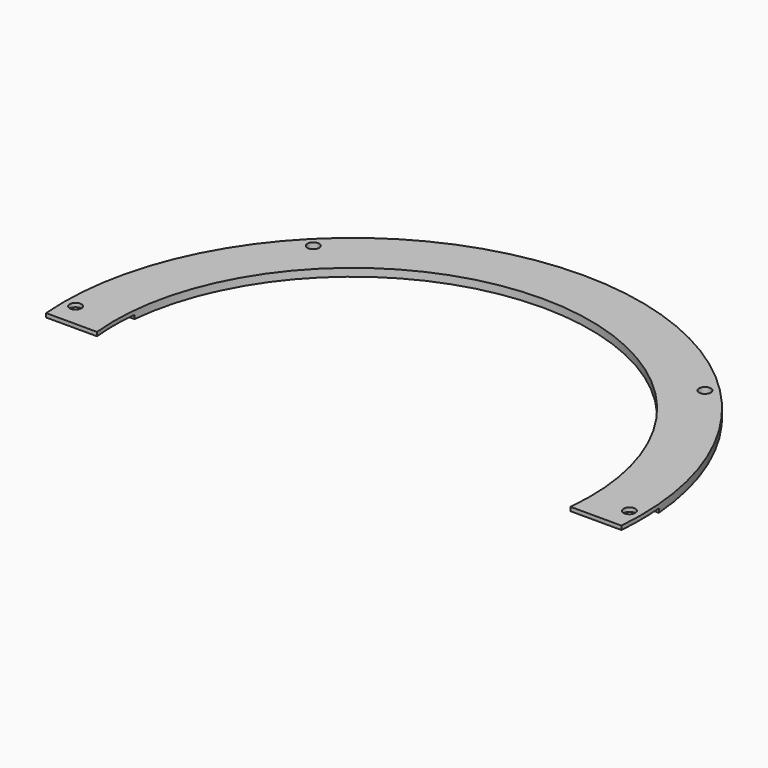
from build123d import *

# Parameters (mm, degrees)
BOX001_W                    = 180
BOX001_H                    = 180
BOX001_DEPTH                = 2
BOX_W                       = 180
BOX_H                       = 180
BOX_DEPTH                   = 1
CYLINDER494_R               = 1.5
CYLINDER494_DEPTH           = 60
CYLINDER494_PLACEMENT_ANGLE = 45
CYLINDER495_R               = 1.5
CYLINDER495_DEPTH           = 60
CYLINDER496_R               = 1.5
CYLINDER496_DEPTH           = 60
CYLINDER496_PLACEMENT_ANGLE = 135
CYLINDER498_R               = 1.5
CYLINDER498_DEPTH           = 60
CYLINDER498_PLACEMENT_ANGLE = 225
CYLINDER499_R               = 1.5
CYLINDER499_DEPTH           = 60
CYLINDER500_R               = 1.5
CYLINDER500_DEPTH           = 60
CYLINDER500_PLACEMENT_ANGLE = 45
CYLINDER_R                  = 1.5
CYLINDER_DEPTH              = 60
TUBE029_R                   = 74
TUBE029_R_2                 = 61
TUBE029_DEPTH               = 2


with BuildPart() as krychle001:
    # Box001 → Box001 (new body)
    with BuildSketch(Plane(origin=(-90, -186, 14), x_dir=(1, 0, 0), z_dir=(0, 0, 1))):
        with Locations((90, 90)):
            Rectangle(BOX001_W, BOX001_H)
    extrude(amount=BOX001_DEPTH)


with BuildPart() as krychle:
    # Box → Box (new body)
    with BuildSketch(Plane(origin=(-90, -174, 14), x_dir=(1, 0, 0), z_dir=(0, 0, 1))):
        with Locations((90, 90)):
            Rectangle(BOX_W, BOX_H)
    extrude(amount=BOX_DEPTH)


with BuildPart() as obj1:
    # Cylinder494 → Cylinder494 (new body)
    with BuildSketch(Plane.XY):
        Circle(CYLINDER494_R)
    extrude(amount=CYLINDER494_DEPTH)


with BuildPart() as obj1_1:
    # Cylinder494 placement: moved
    add(obj1.part.moved(Location((50.204581, -50.204581, 0))).rotate(Axis((50.204581, -50.204581, 0), (0, 0, 1)), CYLINDER494_PLACEMENT_ANGLE))


with BuildPart() as obj2:
    # Cylinder495 → Cylinder495 (new body)
    with BuildSketch(Plane(origin=(71, 0, 0), x_dir=(0, 1, 0), z_dir=(0, 0, 1))):
        Circle(CYLINDER495_R)
    extrude(amount=CYLINDER495_DEPTH)


with BuildPart() as obj3:
    # Cylinder496 → Cylinder496 (new body)
    with BuildSketch(Plane.XY):
        Circle(CYLINDER496_R)
    extrude(amount=CYLINDER496_DEPTH)


with BuildPart() as obj3_1:
    # Cylinder496 placement: moved
    add(obj3.part.moved(Location((50.204581, 50.204581, 0))).rotate(Axis((50.204581, 50.204581, 0), (0, 0, 1)), CYLINDER496_PLACEMENT_ANGLE))


with BuildPart() as obj4:
    # Cylinder498 → Cylinder498 (new body)
    with BuildSketch(Plane.XY):
        Circle(CYLINDER498_R)
    extrude(amount=CYLINDER498_DEPTH)


with BuildPart() as obj4_1:
    # Cylinder498 placement: moved
    add(obj4.part.moved(Location((-50.204581, 50.204581, 0))).rotate(Axis((-50.204581, 50.204581, 0), (0, 0, 1)), CYLINDER498_PLACEMENT_ANGLE))


with BuildPart() as obj5:
    # Cylinder499 → Cylinder499 (new body)
    with BuildSketch(Plane(origin=(-71, 0, 0), x_dir=(0, -1, 0), z_dir=(0, 0, 1))):
        Circle(CYLINDER499_R)
    extrude(amount=CYLINDER499_DEPTH)


with BuildPart() as obj6:
    # Cylinder500 → Cylinder500 (new body)
    with BuildSketch(Plane.XY):
        Circle(CYLINDER500_R)
    extrude(amount=CYLINDER500_DEPTH)


with BuildPart() as obj6_1:
    # Cylinder500 placement: moved
    add(obj6.part.moved(Location((-50.204581, -50.204581, 0))).rotate(Axis((-50.204581, -50.204581, 0), (0, 0, -1)), CYLINDER500_PLACEMENT_ANGLE))


with BuildPart() as compound330:
    # Cylinder → Cylinder (new body)
    with BuildSketch(Plane(origin=(0, -71, 0), x_dir=(1, 0, 0), z_dir=(0, 0, 1))):
        Circle(CYLINDER_R)
    extrude(amount=CYLINDER_DEPTH)

    # Compound330: union obj1, obj2, obj3, obj4, obj5, obj6
    add(obj1_1.part)
    add(obj2.part)
    add(obj3_1.part)
    add(obj4_1.part)
    add(obj5.part)
    add(obj6_1.part)


with BuildPart() as obj7:
    # Tube029 → Tube029 (new body)
    with BuildSketch(Plane.XY.offset(14)):
        Circle(TUBE029_R)
        Circle(TUBE029_R_2, mode=Mode.SUBTRACT)
    extrude(amount=TUBE029_DEPTH)

    # Cut204: cut Compound330
    add(compound330.part, mode=Mode.SUBTRACT)

    # Cut: cut Krychle
    add(krychle.part, mode=Mode.SUBTRACT)

    # Cut206: cut Krychle001
    add(krychle001.part, mode=Mode.SUBTRACT)


solid = obj7.part
